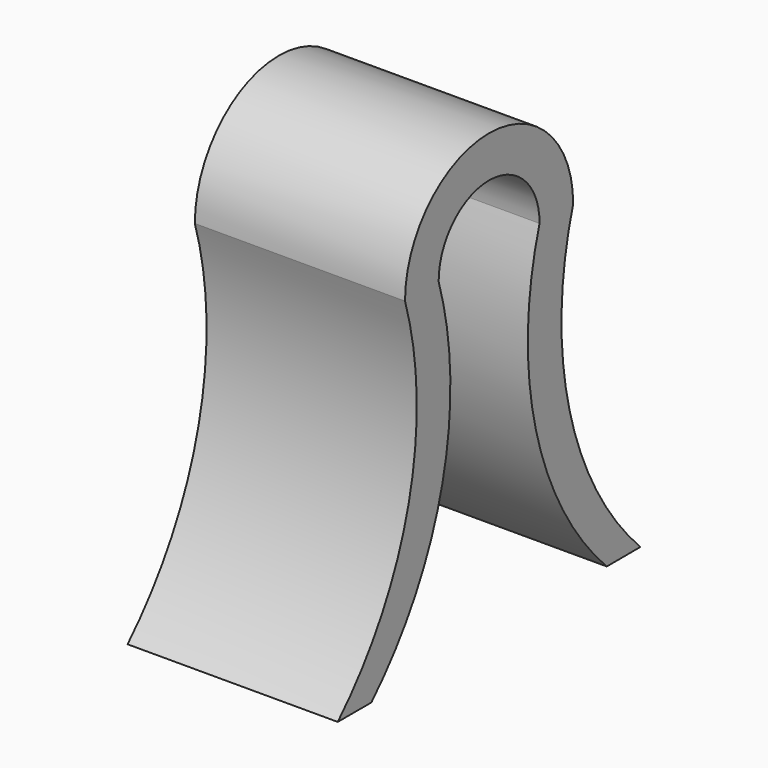
from build123d import *

# Parameters (mm, degrees)
F1_DEPTH = 63.5


with BuildPart() as f1:
    # F0 (on Right) → F1 (new body, symmetric)
    with BuildSketch(Plane.YZ):
        with BuildLine():
            ThreePointArc((-38.1, 101.6), (0, 140.0358), (38.1, 101.6))
            Line((38.1, 101.6), (63.5, 101.6))
            ThreePointArc((63.5, 101.6), (0, 165.1), (-63.5, 101.6))
            Line((-63.5, 101.6), (-38.1, 101.6))
        make_face()
        with BuildLine():
            Line((-114.3, -101.6), (-88.9, -101.6))
            ThreePointArc((-88.9, -101.6), (-35.301476, -7.049631), (-38.1, 101.6))
            Line((-38.1, 101.6), (-63.5, 101.6))
            ThreePointArc((-63.5, 101.6), (-60.701476, -7.049631), (-114.3, -101.6))
        make_face()
        with BuildLine():
            ThreePointArc((38.1, 101.6), (35.322666, -7.010359), (88.899895, -101.527045))
            Line((88.899895, -101.527045), (114.29979, -101.454091))
            ThreePointArc((114.29979, -101.454091), (60.743845, -6.971087), (63.5, 101.6))
            Line((63.5, 101.6), (38.1, 101.6))
        make_face()
    extrude(amount=F1_DEPTH, both=True)


solid = f1.part
